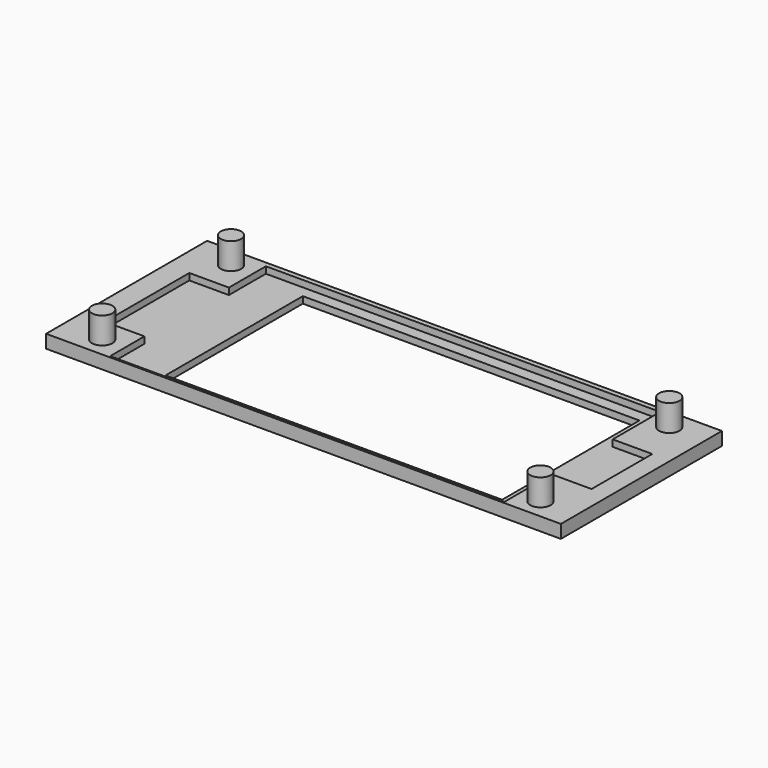
from build123d import *

# Parameters (mm, degrees)
SKETCH_W        = 78
SKETCH_H        = 30.5
PAD_DEPTH       = 2
SKETCH002_W     = 51
SKETCH002_H     = 26
POCKET_DEPTH    = 5
POCKET001_DEPTH = 1
SKETCH001_R     = 1.55
PAD001_DEPTH    = 4


with BuildPart() as part:
    # Sketch → Pad (new body)
    with BuildSketch(Plane.XY):
        with Locations((0, 0.25)):
            Rectangle(SKETCH_W, SKETCH_H)
    extrude(amount=PAD_DEPTH)

    # Sketch002 (on Face6 of Pad) → Pocket (cut)
    with BuildSketch(Plane.XY.offset(2)):
        with Locations((3, 0)):
            Rectangle(SKETCH002_W, SKETCH002_H)
    extrude(amount=-POCKET_DEPTH, mode=Mode.SUBTRACT)

    # Sketch003 (on Face5 of Pocket) → Pocket001 (cut)
    with BuildSketch(Plane.XY.offset(2)):
        Polygon((-35.5, 7.75), (-35.5, -8.25), (-29.5, -8.25), (-29.5, -14.75), (30.25, -14.75), (30.25, -5.75), (36.25, -5.75), (36.25, 5.75), (30.25, 5.75), (30.25, 14.75), (-29.5, 14.75), (-29.5, 7.75), align=None)
    extrude(amount=-POCKET001_DEPTH, mode=Mode.SUBTRACT)

    # Sketch001 (on Face5 of Pocket) → Pad001 (join)
    with BuildSketch(Plane.XY.offset(2)):
        with Locations((33.5, 12.4)):
            Circle(SKETCH001_R)
        with Locations((33.5, -12)):
            Circle(SKETCH001_R)
        with Locations((-32.9, 12.4)):
            Circle(SKETCH001_R)
        with Locations((-32.9, -12)):
            Circle(SKETCH001_R)
    extrude(amount=PAD001_DEPTH)


solid = part.part
